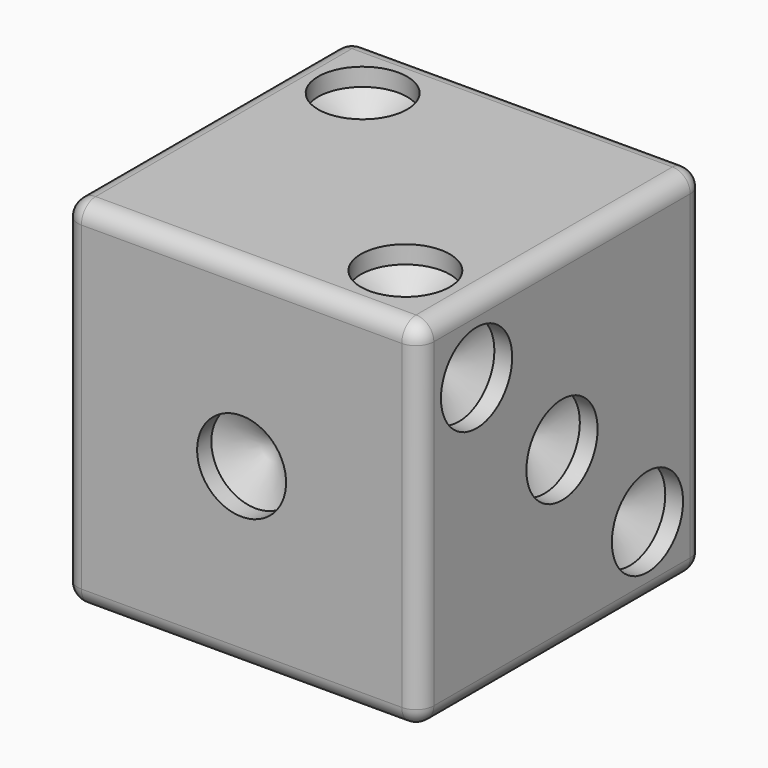
from build123d import *

# Parameters (mm, degrees)
F0_W      = 50.8
F0_H      = 50.8
F1_DEPTH  = 25.4
F3_D      = 12.7
F3_DEPTH  = 2.54
F3_TIP    = 3.8154649308
F5_D      = 12.7
F5_DEPTH  = 2.54
F5_TIP    = 3.8154649308
F7_D      = 12.7
F7_DEPTH  = 2.54
F7_TIP    = 3.8154649308
F9_D      = 12.7
F9_DEPTH  = 2.54
F9_TIP    = 3.8154649308
F12_D     = 12.7
F12_DEPTH = 2.54
F12_TIP   = 3.8154649308
F14_D     = 12.7
F14_DEPTH = 2.54
F14_TIP   = 3.8154649308
F16_D     = 12.7
F16_DEPTH = 2.54
F16_TIP   = 3.8154649308
F17_R     = 2.54


with BuildPart() as f1:
    # F0 (on Front) → F1 (new body, symmetric)
    with BuildSketch(Plane.XZ):
        Rectangle(F0_W, F0_H)
    extrude(amount=F1_DEPTH, both=True)

    # F3
    with Locations(Plane.XZ.offset(25.4)):
        with Locations((0, 0)):
            Hole(F3_D / 2, depth=F3_DEPTH)
            with Locations((0, 0, -(F3_DEPTH + F3_TIP / 2))):  # 118° drill point
                Cone(0, F3_D / 2, F3_TIP, mode=Mode.SUBTRACT)

    # F5
    with Locations(Plane(origin=(0, 25.4, 0), x_dir=(-1, 0, 0), z_dir=(0, 1, 0))):
        with Locations((-15.24, 15.24), (0, 0), (15.24, -15.24)):
            Hole(F5_D / 2, depth=F5_DEPTH)
            with Locations((0, 0, -(F5_DEPTH + F5_TIP / 2))):  # 118° drill point
                Cone(0, F5_D / 2, F5_TIP, mode=Mode.SUBTRACT)

    # F7
    with Locations(Plane.XY.offset(25.4)):
        with Locations((-15.24, 15.24), (15.24, -15.24)):
            Hole(F7_D / 2, depth=F7_DEPTH)
            with Locations((0, 0, -(F7_DEPTH + F7_TIP / 2))):  # 118° drill point
                Cone(0, F7_D / 2, F7_TIP, mode=Mode.SUBTRACT)

    # F9
    with Locations(Plane(origin=(0, 0, -25.4), x_dir=(1, 0, 0), z_dir=(0, 0, -1))):
        with Locations((-15.24, 15.24), (15.24, 15.24), (15.24, -15.24), (-15.24, -15.24)):
            Hole(F9_D / 2, depth=F9_DEPTH)
            with Locations((0, 0, -(F9_DEPTH + F9_TIP / 2))):  # 118° drill point
                Cone(0, F9_D / 2, F9_TIP, mode=Mode.SUBTRACT)

    # F12
    with Locations(Plane(origin=(0, 25.4, 0), x_dir=(-1, 0, 0), z_dir=(0, 1, 0))):
        with Locations((15.24, 15.24), (-15.24, -15.24)):
            Hole(F12_D / 2, depth=F12_DEPTH)
            with Locations((0, 0, -(F12_DEPTH + F12_TIP / 2))):  # 118° drill point
                Cone(0, F12_D / 2, F12_TIP, mode=Mode.SUBTRACT)

    # F14
    with Locations(Plane.YZ.offset(25.4)):
        with Locations((-15.24, 15.24), (0, 0), (15.24, -15.24)):
            Hole(F14_D / 2, depth=F14_DEPTH)
            with Locations((0, 0, -(F14_DEPTH + F14_TIP / 2))):  # 118° drill point
                Cone(0, F14_D / 2, F14_TIP, mode=Mode.SUBTRACT)

    # F16
    with Locations(Plane(origin=(-25.4, 0, 0), x_dir=(0, -1, 0), z_dir=(-1, 0, 0))):
        with Locations((-15.24, 15.24), (-15.24, 0), (-15.24, -15.24), (15.24, -15.24), (15.24, 0), (15.24, 15.24)):
            Hole(F16_D / 2, depth=F16_DEPTH)
            with Locations((0, 0, -(F16_DEPTH + F16_TIP / 2))):  # 118° drill point
                Cone(0, F16_D / 2, F16_TIP, mode=Mode.SUBTRACT)

    # F17
    f17_edges = [f1.edges().sort_by_distance(p)[0] for p in [
        (-25.4, 0, 25.4),
        (0, 25.4, 25.4),
        (-25.4, 25.4, 0),
        (0, -25.4, 25.4),
        (25.4, 0, 25.4),
        (25.4, 25.4, 0),
        (25.4, -25.4, 0),
        (25.4, 0, -25.4),
        (0, 25.4, -25.4),
        (-25.4, 0, -25.4),
        (-25.4, -25.4, 0),
        (0, -25.4, -25.4),
    ]]
    fillet(f17_edges, radius=F17_R)


solid = f1.part
